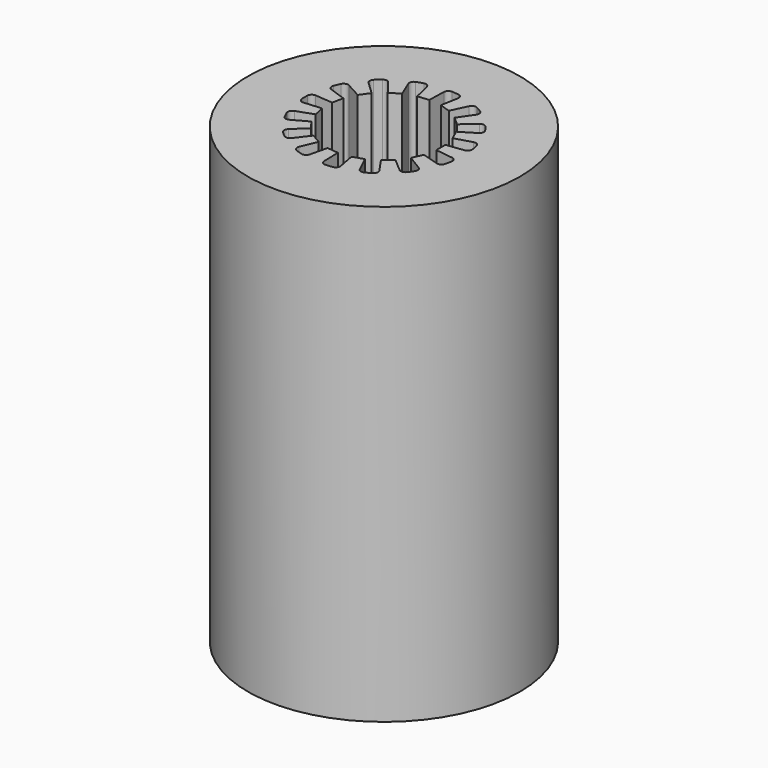
from build123d import *

# Parameters (mm, degrees)
F0_R     = 6
F1_DEPTH = 20


with BuildPart() as f1:
    # F0 (on Top) → F1 (new body)
    with BuildSketch(Plane.XY):
        Circle(F0_R)
        with BuildLine():
            Line((3.279786, 0.349242), (2.50894, 0.25))
            Line((2.50894, 0.25), (2.50894, -0.25))
            Line((2.50894, -0.25), (3.279786, -0.349242))
            ThreePointArc((3.279786, -0.349242), (3.414903, -0.428484), (3.451475, -0.580793))
            ThreePointArc((3.451475, -0.580793), (3.423517, -0.727691), (3.389309, -0.87326))
            ThreePointArc((3.389309, -0.87326), (3.293949, -0.997527), (3.138283, -1.01496))
            Line((3.138283, -1.01496), (2.393715, -0.792091))
            Line((2.393715, -0.792091), (2.190347, -1.248864))
            Line((2.190347, -1.248864), (2.854184, -1.653058))
            ThreePointArc((2.854184, -1.653058), (2.945389, -1.780405), (2.916849, -1.934423))
            ThreePointArc((2.916849, -1.934423), (2.831559, -2.057248), (2.741101, -2.176319))
            ThreePointArc((2.741101, -2.176319), (2.603441, -2.251056), (2.454143, -2.203667))
            Line((2.454143, -2.203667), (1.864595, -1.697223))
            Line((1.864595, -1.697223), (1.493022, -2.031788))
            Line((1.493022, -2.031788), (1.935067, -2.671045))
            ThreePointArc((1.935067, -2.671045), (1.966591, -2.824479), (1.877874, -2.953572))
            ThreePointArc((1.877874, -2.953572), (1.75, -3.031089), (1.618932, -3.103073))
            ThreePointArc((1.618932, -3.103073), (1.462775, -3.115357), (1.345659, -3.01134))
            Line((1.345659, -3.01134), (1.013069, -2.308889))
            Line((1.013069, -2.308889), (0.537541, -2.463398))
            Line((0.537541, -2.463398), (0.68136, -3.227184))
            ThreePointArc((0.68136, -3.227184), (0.647751, -3.380174), (0.514197, -3.462023))
            ThreePointArc((0.514197, -3.462023), (0.36585, -3.480827), (0.216834, -3.493277))
            ThreePointArc((0.216834, -3.493277), (0.069182, -3.440984), (0.004498, -3.298325))
            Line((0.004498, -3.298325), (-0.013625, -2.521328))
            Line((-0.013625, -2.521328), (-0.510886, -2.469064))
            Line((-0.510886, -2.469064), (-0.69016, -3.225313))
            ThreePointArc((-0.69016, -3.225313), (-0.783091, -3.351407), (-0.938389, -3.371858))
            ThreePointArc((-0.938389, -3.371858), (-1.081559, -3.328698), (-1.222756, -3.279462))
            ThreePointArc((-1.222756, -3.279462), (-1.336374, -3.171634), (-1.33744, -3.014999))
            Line((-1.33744, -3.014999), (-1.037964, -2.297806))
            Line((-1.037964, -2.297806), (-1.470976, -2.047806))
            Line((-1.470976, -2.047806), (-1.942346, -2.665757))
            ThreePointArc((-1.942346, -2.665757), (-2.078529, -2.743151), (-2.228719, -2.698668))
            ThreePointArc((-2.228719, -2.698668), (-2.341957, -2.601007), (-2.45092, -2.498598))
            ThreePointArc((-2.45092, -2.498598), (-2.510858, -2.35388), (-2.448123, -2.210353))
            Line((-2.448123, -2.210353), (-1.882829, -1.676972))
            Line((-1.882829, -1.676972), (-2.176721, -1.272464))
            Line((-2.176721, -1.272464), (-2.858682, -1.645267))
            ThreePointArc((-2.858682, -1.645267), (-3.014571, -1.660579), (-3.133684, -1.558854))
            ThreePointArc((-3.133684, -1.558854), (-3.197409, -1.423578), (-3.255298, -1.285704))
            ThreePointArc((-3.255298, -1.285704), (-3.251192, -1.129119), (-3.135503, -1.023516))
            Line((-3.135503, -1.023516), (-2.402136, -0.766175))
            Line((-2.402136, -0.766175), (-2.506092, -0.277101))
            Line((-2.506092, -0.277101), (-3.280726, -0.340295))
            ThreePointArc((-3.280726, -0.340295), (-3.429366, -0.290878), (-3.496806, -0.1495))
            ThreePointArc((-3.496806, -0.1495), (-3.5, 0), (-3.496806, 0.1495))
            ThreePointArc((-3.496806, 0.1495), (-3.429366, 0.290878), (-3.280726, 0.340295))
            Line((-3.280726, 0.340295), (-2.506092, 0.277101))
            Line((-2.506092, 0.277101), (-2.402136, 0.766175))
            Line((-2.402136, 0.766175), (-3.135503, 1.023516))
            ThreePointArc((-3.135503, 1.023516), (-3.251192, 1.129119), (-3.255298, 1.285704))
            ThreePointArc((-3.255298, 1.285704), (-3.197409, 1.423578), (-3.133684, 1.558854))
            ThreePointArc((-3.133684, 1.558854), (-3.014571, 1.660579), (-2.858682, 1.645267))
            Line((-2.858682, 1.645267), (-2.176721, 1.272464))
            Line((-2.176721, 1.272464), (-1.882829, 1.676972))
            Line((-1.882829, 1.676972), (-2.448123, 2.210353))
            ThreePointArc((-2.448123, 2.210353), (-2.510858, 2.35388), (-2.45092, 2.498598))
            ThreePointArc((-2.45092, 2.498598), (-2.341957, 2.601007), (-2.228719, 2.698668))
            ThreePointArc((-2.228719, 2.698668), (-2.078529, 2.743151), (-1.942346, 2.665757))
            Line((-1.942346, 2.665757), (-1.470976, 2.047806))
            Line((-1.470976, 2.047806), (-1.037964, 2.297806))
            Line((-1.037964, 2.297806), (-1.33744, 3.014999))
            ThreePointArc((-1.33744, 3.014999), (-1.336374, 3.171634), (-1.222756, 3.279462))
            ThreePointArc((-1.222756, 3.279462), (-1.081559, 3.328698), (-0.938389, 3.371858))
            ThreePointArc((-0.938389, 3.371858), (-0.783091, 3.351407), (-0.69016, 3.225313))
            Line((-0.69016, 3.225313), (-0.510886, 2.469064))
            Line((-0.510886, 2.469064), (-0.013625, 2.521328))
            Line((-0.013625, 2.521328), (0.004498, 3.298325))
            ThreePointArc((0.004498, 3.298325), (0.069182, 3.440984), (0.216834, 3.493277))
            ThreePointArc((0.216834, 3.493277), (0.36585, 3.480827), (0.514197, 3.462023))
            ThreePointArc((0.514197, 3.462023), (0.647751, 3.380174), (0.68136, 3.227184))
            Line((0.68136, 3.227184), (0.537541, 2.463398))
            Line((0.537541, 2.463398), (1.013069, 2.308889))
            Line((1.013069, 2.308889), (1.345659, 3.01134))
            ThreePointArc((1.345659, 3.01134), (1.462775, 3.115357), (1.618932, 3.103073))
            ThreePointArc((1.618932, 3.103073), (1.75, 3.031089), (1.877874, 2.953572))
            ThreePointArc((1.877874, 2.953572), (1.966591, 2.824479), (1.935067, 2.671045))
            Line((1.935067, 2.671045), (1.493022, 2.031788))
            Line((1.493022, 2.031788), (1.864595, 1.697223))
            Line((1.864595, 1.697223), (2.454143, 2.203667))
            ThreePointArc((2.454143, 2.203667), (2.603441, 2.251056), (2.741101, 2.176319))
            ThreePointArc((2.741101, 2.176319), (2.831559, 2.057248), (2.916849, 1.934423))
            ThreePointArc((2.916849, 1.934423), (2.945389, 1.780405), (2.854184, 1.653058))
            Line((2.854184, 1.653058), (2.190347, 1.248864))
            Line((2.190347, 1.248864), (2.393715, 0.792091))
            Line((2.393715, 0.792091), (3.138283, 1.01496))
            ThreePointArc((3.138283, 1.01496), (3.293949, 0.997527), (3.389309, 0.87326))
            ThreePointArc((3.389309, 0.87326), (3.423517, 0.727691), (3.451475, 0.580793))
            ThreePointArc((3.451475, 0.580793), (3.414903, 0.428484), (3.279786, 0.349242))
        make_face(mode=Mode.SUBTRACT)
    extrude(amount=F1_DEPTH)


solid = f1.part
